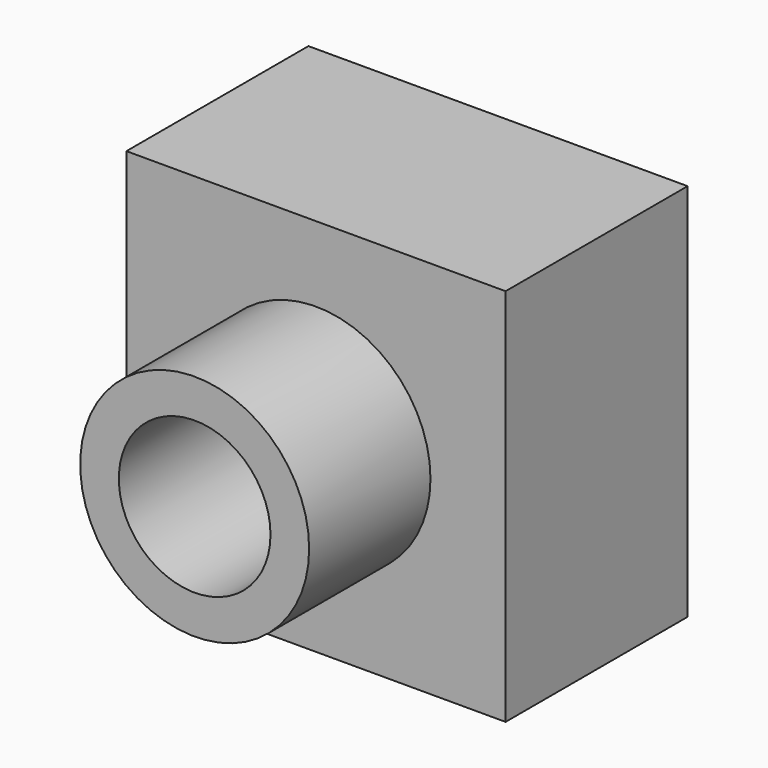
from build123d import *

# Parameters (mm, degrees)
F0_W     = 63.5
F0_H     = 63.5
F1_DEPTH = 63.5
F2_W     = 63.5
F2_H     = 63.5
F2_R     = 19.171796
F3_DEPTH = 25.4
F4_R     = 12.7
F5_DEPTH = 63.754


with BuildPart() as f1:
    # F0 (on Front) → F1 (new body)
    with BuildSketch(Plane.XZ):
        with Locations((4.171845, -1.547694)):
            Rectangle(F0_W, F0_H)
    extrude(amount=F1_DEPTH)

    # F2 (on face) → F3 (cut)
    with BuildSketch(Plane.XZ.offset(63.5)):
        with Locations((4.171845, -1.547694)):
            Rectangle(F2_W, F2_H)
        with Locations((4.171845, -1.547694)):
            Circle(F2_R, mode=Mode.SUBTRACT)
    extrude(amount=-F3_DEPTH, mode=Mode.SUBTRACT)

    # F4 (on face) → F5 (cut)
    with BuildSketch(Plane.XZ.offset(63.5)):
        with Locations((4.171845, -1.547694)):
            Circle(F4_R)
    extrude(amount=-F5_DEPTH, mode=Mode.SUBTRACT)


solid = f1.part
